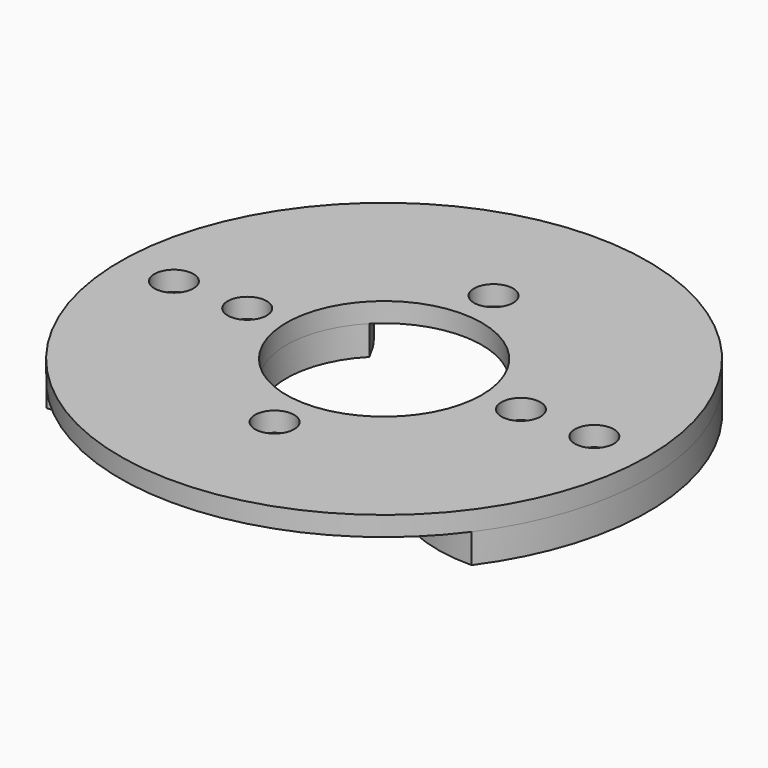
from build123d import *

# Parameters (mm, degrees)
SKETCH_R        = 27
SKETCH_R_2      = 10
PAD_DEPTH       = 2
SKETCH001_R     = 2
POCKET_DEPTH    = 2.001
SKETCH004_R     = 2
POCKET002_DEPTH = 2.001
SKETCH005_R     = 4.5
PAD001_DEPTH    = 3


with BuildPart() as part:
    # Sketch → Pad (new body)
    with BuildSketch(Plane.XY):
        Circle(SKETCH_R)
        Circle(SKETCH_R_2, mode=Mode.SUBTRACT)
    extrude(amount=PAD_DEPTH)

    # Sketch001 (on Face4 of Pad) → Pocket (cut, through all)
    with BuildSketch(Plane.XY.offset(2)):
        with Locations((0, 14)):
            Circle(SKETCH001_R)
        with Locations((14, 0)):
            Circle(SKETCH001_R)
        with Locations((0, -14)):
            Circle(SKETCH001_R)
        with Locations((-14, 0)):
            Circle(SKETCH001_R)
    extrude(amount=-POCKET_DEPTH, mode=Mode.SUBTRACT)

    # Sketch004 → Pocket002 (cut, through all)
    with BuildSketch(Plane.XY.offset(2)):
        with Locations((-21.5, 0)):
            Circle(SKETCH004_R)
        with Locations((21.5, 0)):
            Circle(SKETCH004_R)
    extrude(amount=-POCKET002_DEPTH, mode=Mode.SUBTRACT)

    # Sketch005 → Pad001 (join)
    with BuildSketch(Plane.XY):
        with BuildLine():
            ThreePointArc((21.75, 15.998047), (13.130278, 13.636266), (7.122093, 7.019672))
            ThreePointArc((7.122093, -7.019672), (10, 0), (7.122093, 7.019672))
            ThreePointArc((7.122093, -7.019672), (13.130278, -13.636266), (21.75, -15.998047))
            ThreePointArc((21.75, -15.998047), (27, 0), (21.75, 15.998047))
        make_face()
        with Locations((21.5, 0)):
            Circle(SKETCH005_R, mode=Mode.SUBTRACT)
        with BuildLine():
            ThreePointArc((-7.122093, 7.019672), (-10, 0), (-7.122093, -7.019672))
            ThreePointArc((-21.75, -15.998047), (-13.130278, -13.636266), (-7.122093, -7.019672))
            ThreePointArc((-21.75, 15.998047), (-27, 0), (-21.75, -15.998047))
            ThreePointArc((-7.122093, 7.019672), (-13.130278, 13.636266), (-21.75, 15.998047))
        make_face()
        with Locations((-21.5, 0)):
            Circle(SKETCH005_R, mode=Mode.SUBTRACT)
    extrude(amount=-PAD001_DEPTH)


solid = part.part
